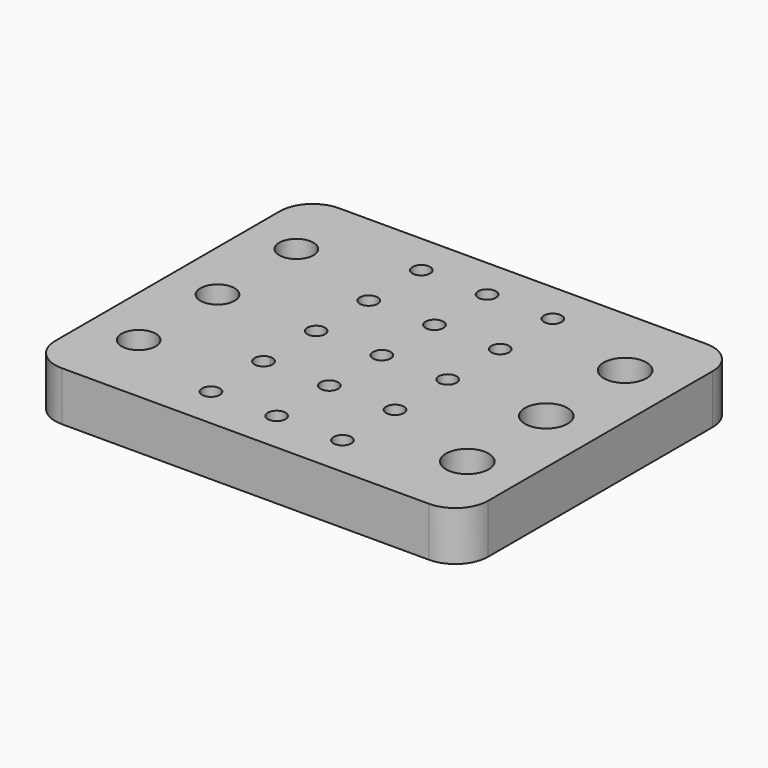
from build123d import *

# Parameters (mm, degrees)
F0_W     = 167.259
F0_H     = 133.858
F0_R     = 6.604
F0_R_2   = 3.429
F0_R_3   = 8.255
F1_DEPTH = 12.7
F2_W     = 167.259
F2_H     = 133.858
F3_DEPTH = 6.35
F4_R     = 12.7


with BuildPart() as f1:
    # F0 (on Top) → F1 (new body)
    with BuildSketch(Plane.XY):
        with Locations((26.2255, 0)):
            Rectangle(F0_W, F0_H)
        with Locations((-38.1, -38.1)):
            Circle(F0_R, mode=Mode.SUBTRACT)
        with Locations((0, -50.8)):
            Circle(F0_R_2, mode=Mode.SUBTRACT)
        with Locations((25.4, -50.8)):
            Circle(F0_R_2, mode=Mode.SUBTRACT)
        with BuildLine():
            ThreePointArc((3.429, -25.4), (-2.424669, -27.824669), (0, -21.971))
            ThreePointArc((0, -21.971), (2.424669, -22.975331), (3.429, -25.4))
        make_face(mode=Mode.SUBTRACT)
        with Locations((25.4, -25.4)):
            Circle(F0_R_2, mode=Mode.SUBTRACT)
        with Locations((50.8, -50.8)):
            Circle(F0_R_2, mode=Mode.SUBTRACT)
        with Locations((88.9, -38.1)):
            Circle(F0_R_3, mode=Mode.SUBTRACT)
        with Locations((50.8, -25.4)):
            Circle(F0_R_2, mode=Mode.SUBTRACT)
        with Locations((-38.1, 0)):
            Circle(F0_R, mode=Mode.SUBTRACT)
        with BuildLine():
            ThreePointArc((0, -3.429), (-2.424669, 2.424669), (3.429, 0))
            ThreePointArc((3.429, 0), (2.424669, -2.424669), (0, -3.429))
        make_face(mode=Mode.SUBTRACT)
        with BuildLine():
            ThreePointArc((28.829, 0), (25.4, -3.429), (21.971, 0))
            ThreePointArc((21.971, 0), (25.4, 3.429), (28.829, 0))
        make_face(mode=Mode.SUBTRACT)
        with Locations((0, 25.4)):
            Circle(F0_R_2, mode=Mode.SUBTRACT)
        with Locations((25.4, 25.4)):
            Circle(F0_R_2, mode=Mode.SUBTRACT)
        with Locations((-38.1, 38.1)):
            Circle(F0_R, mode=Mode.SUBTRACT)
        with Locations((0, 50.8)):
            Circle(F0_R_2, mode=Mode.SUBTRACT)
        with Locations((25.4, 50.8)):
            Circle(F0_R_2, mode=Mode.SUBTRACT)
        with Locations((50.8, 0)):
            Circle(F0_R_2, mode=Mode.SUBTRACT)
        with Locations((50.8, 25.4)):
            Circle(F0_R_2, mode=Mode.SUBTRACT)
        with Locations((88.9, 0)):
            Circle(F0_R_3, mode=Mode.SUBTRACT)
        with Locations((50.8, 50.8)):
            Circle(F0_R_2, mode=Mode.SUBTRACT)
        with Locations((88.9, 38.1)):
            Circle(F0_R_3, mode=Mode.SUBTRACT)
    extrude(amount=F1_DEPTH)

    # F2 (on face) → F3 (join)
    with BuildSketch(Plane(origin=(0, 0, 0), x_dir=(1, 0, 0), z_dir=(0, 0, -1))):
        with Locations((26.2255, 0)):
            Rectangle(F2_W, F2_H)
    extrude(amount=F3_DEPTH)

    # F4
    f4_edges = [f1.edges().sort_by_distance(p)[0] for p in [
        (-57.404, -66.929, 3.175),
        (-57.404, 66.929, 3.175),
        (109.855, -66.929, 3.175),
        (109.855, 66.929, 3.175),
    ]]
    fillet(f4_edges, radius=F4_R)


solid = f1.part
